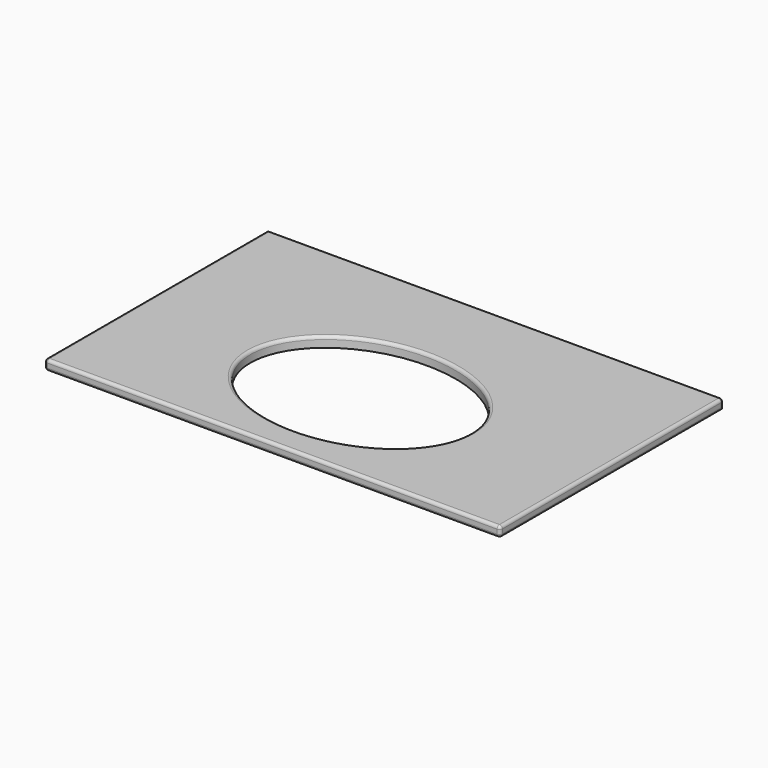
from build123d import *

# Parameters (mm, degrees)
F0_W     = 787.4
F0_H     = 482.6
F1_DEPTH = 17.78
F2_R     = 5.08


with BuildPart() as f1:
    # F0 (on Top) → F1 (new body)
    with BuildSketch(Plane.XY):
        with Locations((393.7, -241.3)):
            Rectangle(F0_W, F0_H)
        with BuildLine():
            add(Edge.make_bspline(
                [(584.2, -292.1), (584.2, -44.633241), (298.45, -168.36662), (12.7, -292.1), (298.45, -415.83338), (584.2, -539.566759), (584.2, -292.1)],
                knots=[0, 0, 0, 2.094395, 2.094395, 4.18879, 4.18879, 6.283185, 6.283185, 6.283185], degree=2, weights=[1, 0.5, 1, 0.5, 1, 0.5, 1]))
        make_face(mode=Mode.SUBTRACT)
    extrude(amount=F1_DEPTH)

    # F2
    f2_edges = [f1.edges().sort_by_distance(p)[0] for p in [
        (0, -482.6, 8.89),
        (787.4, -482.6, 8.89),
        (393.7, -482.6, 0),
        (393.7, -482.6, 17.78),
        (787.4, 0, 8.89),
        (787.4, -241.3, 0),
        (787.4, -241.3, 17.78),
        (393.7, 0, 17.78),
        (0, -241.3, 17.78),
        (203.2, -292.1, 17.78),
        (0, -241.3, 0),
    ]]
    fillet(f2_edges, radius=F2_R)


solid = f1.part
